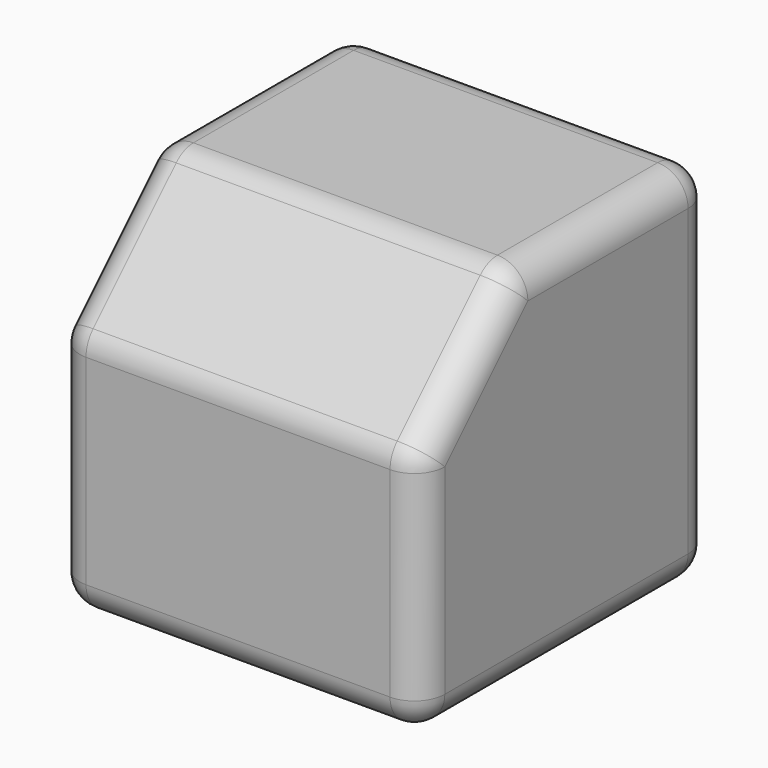
from build123d import *

# Parameters (mm, degrees)
F0_W     = 76.2
F0_H     = 76.2
F1_DEPTH = 76.2
F2_SIZE  = 25.4
F3_R     = 6.35


with BuildPart() as f1:
    # F0 (on Top) → F1 (new body)
    with BuildSketch(Plane.XY):
        Rectangle(F0_W, F0_H)
    extrude(amount=F1_DEPTH)

    # F2
    f2_edges = [f1.edges().sort_by_distance(p)[0] for p in [
        (0, -38.1, 76.2),
    ]]
    chamfer(f2_edges, length=F2_SIZE)

    # F3
    f3_edges = [f1.edges().sort_by_distance(p)[0] for p in [
        (38.1, 12.7, 76.2),
        (0, 38.1, 76.2),
        (0, -12.7, 76.2),
        (-38.1, 12.7, 76.2),
        (38.1, -38.1, 25.4),
        (38.1, 0, 0),
        (38.1, 38.1, 38.1),
        (0, -38.1, 50.8),
        (38.1, -25.4, 63.5),
        (-38.1, -25.4, 63.5),
        (0, -38.1, 0),
        (-38.1, -38.1, 25.4),
        (-38.1, 0, 0),
        (0, 38.1, 0),
        (-38.1, 38.1, 38.1),
    ]]
    fillet(f3_edges, radius=F3_R)


solid = f1.part
